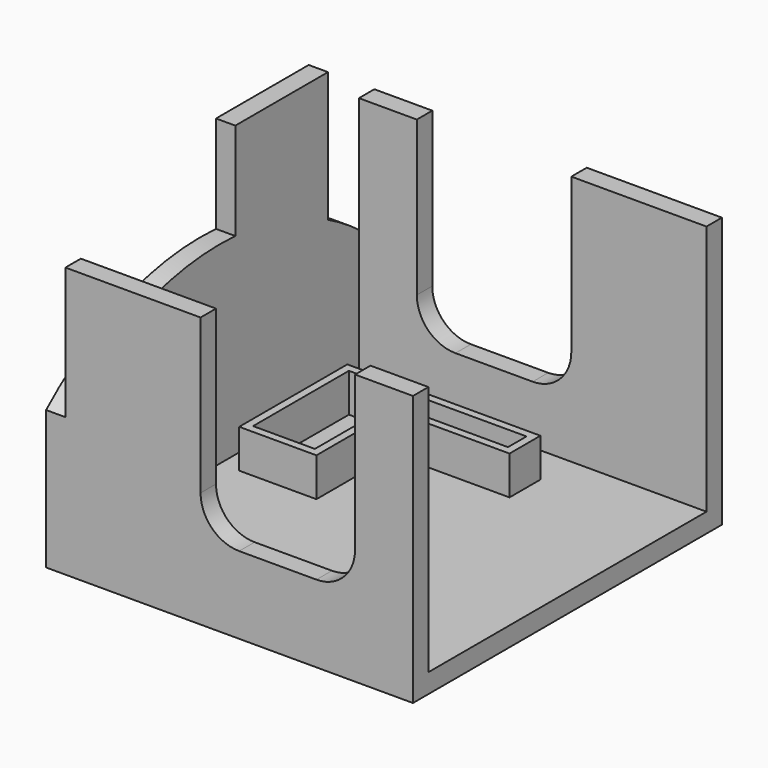
from build123d import *

# Parameters (mm, degrees)
F0_W      = 95
F0_H      = 100
F1_DEPTH  = 5
F3_DEPTH  = 5
F5_DEPTH  = 5
F7_DEPTH  = 5
F8_R      = 10
F10_DEPTH = 10
F12_DEPTH = 10


with BuildPart() as f1:
    # F0 (on Top) → F1 (new body)
    with BuildSketch(Plane.XY):
        with Locations((47.5, 50)):
            Rectangle(F0_W, F0_H)
    extrude(amount=F1_DEPTH)

    # F2 (on face) → F3 (join)
    with BuildSketch(Plane(origin=(0, 0, 0), x_dir=(0, -1, 0), z_dir=(-1, 0, 0))):
        with BuildLine():
            Line((0, 5), (0, 35.901699))
            ThreePointArc((0, 35.901699), (-25.589962, 50.916501), (-55, 54.833148))
            Line((-55, 54.833148), (-55, 80))
            Line((-55, 80), (-85, 80))
            Line((-85, 80), (-85, 46.332496))
            ThreePointArc((-85, 46.332496), (-92.818809, 41.57556), (-100, 35.901699))
            Line((-100, 35.901699), (-100, 5))
            Line((-100, 5), (0, 5))
        make_face()
    extrude(amount=-F3_DEPTH)

    # F4 (on face) → F5 (join)
    with BuildSketch(Plane.XZ):
        Polygon((5, 70), (5, 5), (95, 5), (95, 70), (80, 70), (80, 20), (40, 20), (40, 70), align=None)
    extrude(amount=-F5_DEPTH)

    # F6 (on face) → F7 (join)
    with BuildSketch(Plane(origin=(0, 100, 0), x_dir=(-1, 0, 0), z_dir=(0, 1, 0))):
        Polygon((-95, 5), (-5, 5), (-5, 70), (-20, 70), (-20, 20), (-60, 20), (-60, 70), (-95, 70), align=None)
    extrude(amount=-F7_DEPTH)

    # F8
    f8_edges = [f1.edges().sort_by_distance(p)[0] for p in [
        (20, 97.5, 20),
        (40, 2.5, 20),
        (60, 97.5, 20),
        (80, 2.5, 20),
    ]]
    fillet(f8_edges, radius=F8_R)

    # F9 (on face) → F10 (join)
    with BuildSketch(Plane.XY.offset(5)):
        Polygon((10, 85), (10, 50), (30, 50), (30, 75), (60, 75), (60, 85), align=None)
    extrude(amount=F10_DEPTH)

    # F11 (on face) → F12 (cut)
    with BuildSketch(Plane.XY.offset(15)):
        Polygon((57.999999, 82.999999), (12.000001, 82.999999), (12.000001, 52.000001), (27.999999, 52.000001), (27.999999, 77.000001), (57.999999, 77.000001), align=None)
    extrude(amount=-F12_DEPTH, mode=Mode.SUBTRACT)


solid = f1.part
